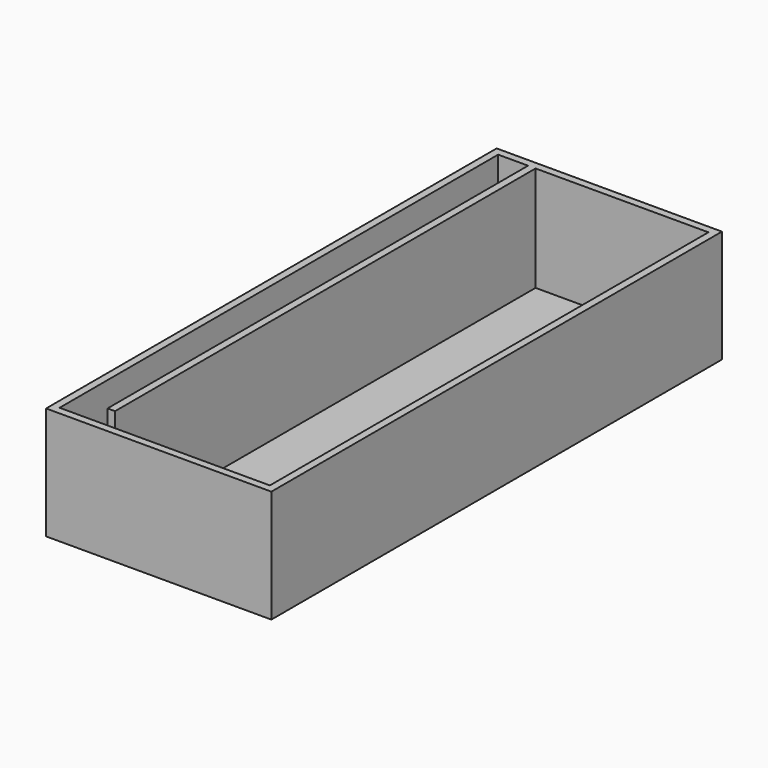
from build123d import *

# Parameters (mm, degrees)
F0_W     = 6
F0_H     = 15
F1_DEPTH = 3
F2_T     = -0.2
F3_W     = 0.2
F3_H     = 14
F4_DEPTH = 2.8


with BuildPart() as f1:
    # F0 (on Top) → F1 (new body)
    with BuildSketch(Plane.XY):
        Rectangle(F0_W, F0_H)
    extrude(amount=F1_DEPTH)

    # F2
    f2_openings = [f1.faces().sort_by_distance(p)[0] for p in [
        (0, 0, 3),
    ]]
    offset(amount=F2_T, openings=f2_openings)

    # F3 (on face) → F4 (join)
    with BuildSketch(Plane.XY.offset(0.2)):
        with Locations((-1.903401, 0.3)):
            Rectangle(F3_W, F3_H)
    extrude(amount=F4_DEPTH)


solid = f1.part
